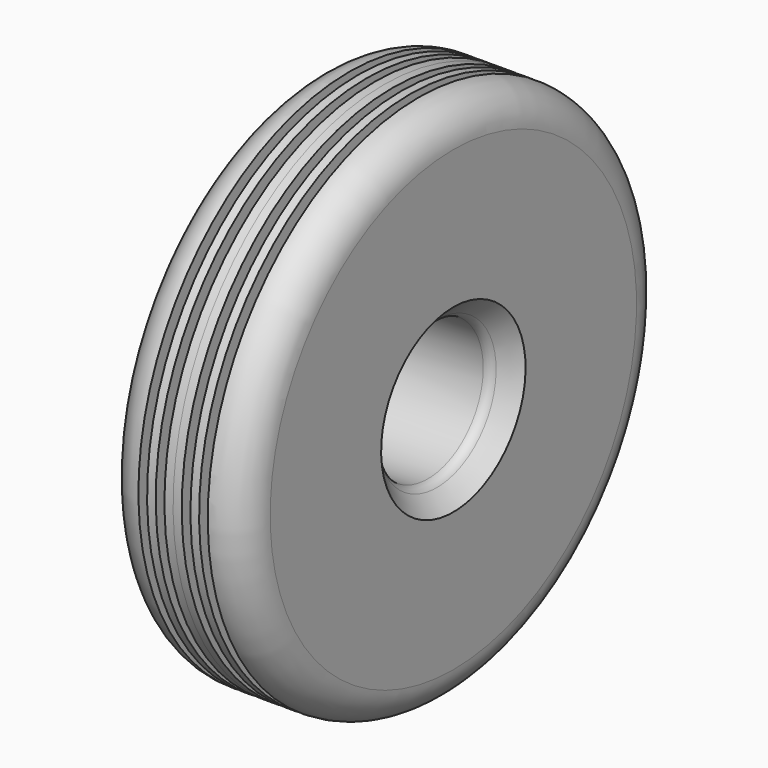
from build123d import *


with BuildPart() as f1:
    # F0 (on Front) → F1 (revolve)
    with BuildSketch(Plane.XZ):
        with BuildLine():
            Line((0, 427.002403), (0, 0))
            Line((0, 0), (96.21818, 0))
            ThreePointArc((96.21818, 0), (107.533369, 2.659585), (116.478976, 10.081378))
            Line((116.478976, 10.081378), (152.4, 46.002403))
            Line((152.4, 46.002403), (152.4, 350.802403))
            ThreePointArc((152.4, 350.802403), (130.081537, 404.68394), (76.2, 427.002403))
            Line((76.2, 427.002403), (76.2, 376.202403))
            Line((76.2, 376.202403), (57.15, 376.202403))
            Line((57.15, 376.202403), (57.15, 427.002403))
            Line((57.15, 427.002403), (38.1, 427.002403))
            Line((38.1, 427.002403), (38.1, 376.202403))
            Line((38.1, 376.202403), (19.05, 376.202403))
            Line((19.05, 376.202403), (19.05, 427.002403))
            Line((19.05, 427.002403), (0, 427.002403))
        make_face()
    revolve(axis=Axis((107.696429, 0, -152.4), (-1, 0, 0)))

    # F2: F1 across face


with BuildPart() as f1_1:
    add(f1.part)
    add(f1.part.mirror(Plane(origin=(0, 0, -152.4), x_dir=(0, -1, 0), z_dir=(-1, 0, 0))))


solid = f1_1.part
